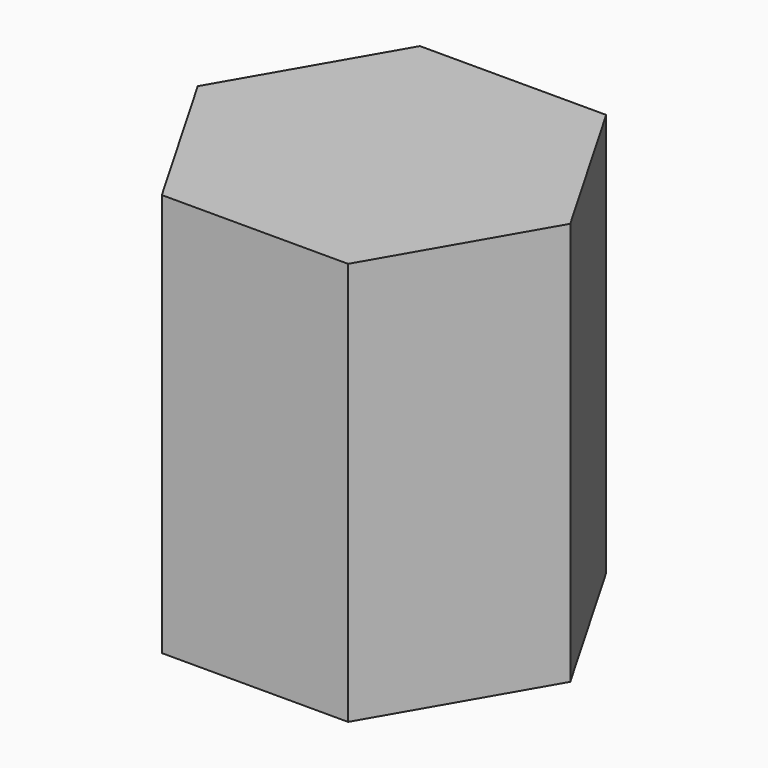
from build123d import *

# Parameters (mm, degrees)
F2_R     = 1.6
F3_DEPTH = 5
F4_R     = 1.6
F5_DEPTH = 2


with BuildPart() as f3:
    # F2 (on Top) → F3 (new body)
    with BuildSketch(Plane.XY):
        Polygon((-1.6165807537, -2.8), (1.6165807537, -2.8), (3.2331615075, 0), (1.6165807537, 2.8), (-1.6165807537, 2.8), (-3.2331615075, 0), align=None)
        Circle(F2_R, mode=Mode.SUBTRACT)
    extrude(amount=F3_DEPTH)

    # F4 (on face) → F5 (join)
    with BuildSketch(Plane.XY.offset(5)):
        Polygon((-1.6165807537, -2.8), (1.6165807537, -2.8), (3.2331615075, 0), (1.6165807537, 2.8), (-1.6165807537, 2.8), (-3.2331615075, 0), align=None)
        Circle(F4_R, mode=Mode.SUBTRACT)
        Circle(F4_R)
    extrude(amount=F5_DEPTH)


solid = f3.part
